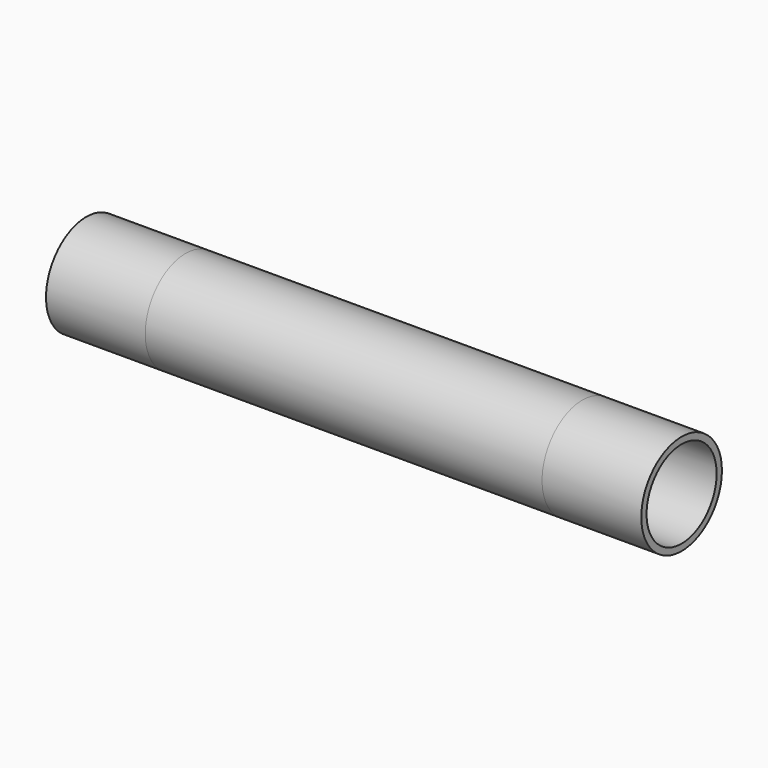
from build123d import *

# Parameters (mm, degrees)
F0_R        = 12.7
F0_R_2      = 11.04
F1_DEPTH    = 50
F1_FACE_R   = 12.7
F1_FACE_R_2 = 11.04
F2_DEPTH    = 25


with BuildPart() as f1:
    # F0 (on Right) → F1 (new body, symmetric)
    with BuildSketch(Plane.YZ):
        Circle(F0_R)
        Circle(F0_R_2, mode=Mode.SUBTRACT)
    extrude(amount=F1_DEPTH, both=True)


with BuildPart() as f2:
    # F1_face (on face) → F2 (new body)
    with BuildSketch(Plane.YZ.offset(50)):
        Circle(F1_FACE_R)
        Circle(F1_FACE_R_2, mode=Mode.SUBTRACT)
    extrude(amount=F2_DEPTH)


with BuildPart() as f3_1:
    # F3: instance of F2
    add(f2.part.mirror(Plane.YZ))


solid = Compound([f1.part, f2.part, f3_1.part])
